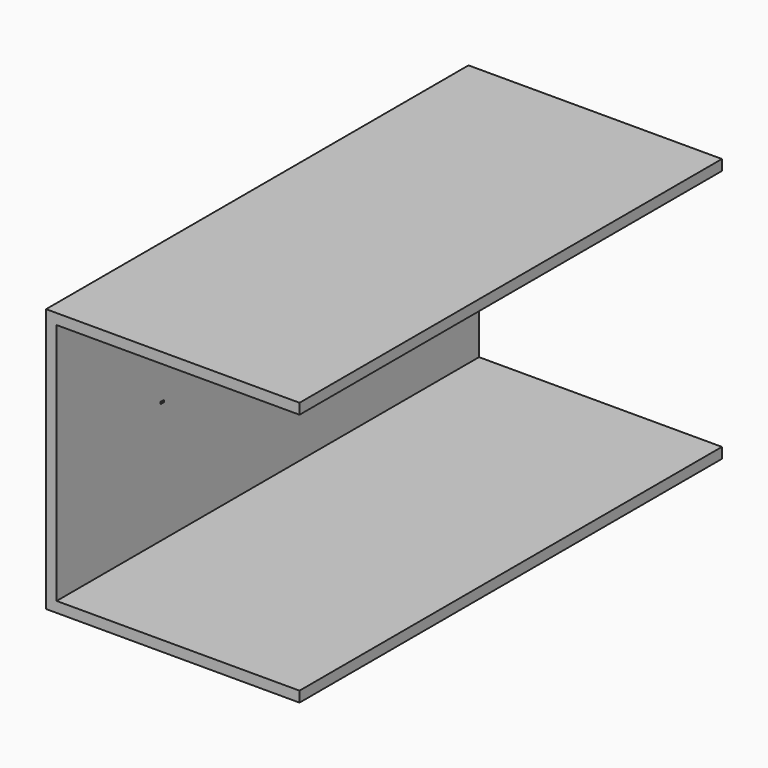
from build123d import *

# Parameters (mm, degrees)
F0_W      = 100
F0_H      = 100
F1_DEPTH  = 200
F2_W      = 92
F2_H      = 92
F3_DEPTH  = 200
F4_R      = 5
F5_DEPTH  = 4
F7_DEPTH  = 4
F4_R_2    = 7
F8_DEPTH  = 20
F11_DEPTH = 1
F12_DEPTH = 20
F13_W     = 216.226272
F13_H     = 124.404148
F14_DEPTH = 304.8


with BuildPart() as f1:
    # F0 (on Front) → F1 (new body)
    with BuildSketch(Plane.XZ):
        with Locations((50, 50)):
            Rectangle(F0_W, F0_H)
    extrude(amount=-F1_DEPTH)

    # F2 (on face) → F3 (cut)
    with BuildSketch(Plane.XZ):
        with Locations((50, 50)):
            Rectangle(F2_W, F2_H)
    extrude(amount=-F3_DEPTH, mode=Mode.SUBTRACT)

    # F4 (on face) → F5 (cut)
    with BuildSketch(Plane.YZ.offset(100)):
        with Locations((50, 50)):
            Circle(F4_R)
        with Locations((100, 50)):
            Circle(F4_R)
        with Locations((150, 50)):
            Circle(F4_R)
    extrude(amount=-F5_DEPTH, mode=Mode.SUBTRACT)

    # F6 (on face) → F7 (cut)
    with BuildSketch(Plane(origin=(0, 0, 0), x_dir=(0, -1, 0), z_dir=(-1, 0, 0))):
        Polygon((-50, 50.4), (-50.85, 50.4), (-50.85, 49.6), (-49.15, 49.6), (-49.15, 50.4), align=None)
        Polygon((-100, 50.4), (-100.85, 50.4), (-100.85, 49.6), (-99.15, 49.6), (-99.15, 50.4), align=None)
        Polygon((-150, 50), (-150, 49.6), (-149.15, 49.6), (-149.15, 50.4), (-150, 50.4), align=None)
        Polygon((-150.85, 49.6), (-150, 49.6), (-150, 50), (-150, 50.4), (-150.85, 50.4), align=None)
    extrude(amount=-F7_DEPTH, mode=Mode.SUBTRACT)

    # F4 (on face) → F8 (join)
    with BuildSketch(Plane.YZ.offset(100)):
        with Locations((50, 50)):
            Circle(F4_R_2)
        with Locations((50, 50)):
            Circle(F4_R, mode=Mode.SUBTRACT)
        with Locations((100, 50)):
            Circle(F4_R_2)
        with Locations((100, 50)):
            Circle(F4_R, mode=Mode.SUBTRACT)
        with Locations((150, 50)):
            Circle(F4_R_2)
        with Locations((150, 50)):
            Circle(F4_R, mode=Mode.SUBTRACT)
    extrude(amount=F8_DEPTH)

    # F10 (on face) → F11 (join)
    with BuildSketch(Plane(origin=(96, 0, 0), x_dir=(0, -1, 0), z_dir=(-1, 0, 0))):
        with BuildLine():
            Line((-45.069934, 49.166667), (-49.99933, 49.166667))
            Line((-49.99933, 49.166667), (-54.930066, 49.166667))
            ThreePointArc((-54.930066, 49.166667), (-50, 45), (-45.069934, 49.166667))
        make_face()
        with BuildLine():
            Line((-95.069934, 49.166667), (-99.99933, 49.166667))
            Line((-99.99933, 49.166667), (-104.930066, 49.166667))
            ThreePointArc((-104.930066, 49.166667), (-100, 45), (-95.069934, 49.166667))
        make_face()
        with BuildLine():
            Line((-145.069934, 49.166667), (-149.99933, 49.166667))
            Line((-149.99933, 49.166667), (-154.930066, 49.166667))
            ThreePointArc((-154.930066, 49.166667), (-150, 45), (-145.069934, 49.166667))
        make_face()
    extrude(amount=-F11_DEPTH)

    # F9 (on face) → F12 (join)
    with BuildSketch(Plane.YZ.offset(120)):
        with BuildLine():
            Line((47.001097, 54.000823), (47.001097, 56.325076))
            ThreePointArc((47.001097, 56.325076), (46.257829, 44.084245), (57, 50))
            ThreePointArc((57, 50), (55.91608, 53.741657), (53, 56.324555))
            Line((53, 56.324555), (53, 54))
            ThreePointArc((53, 54), (54.472136, 52.236068), (55, 50))
            ThreePointArc((55, 50), (47.763319, 45.528171), (47.001097, 54.000823))
        make_face()
        with BuildLine():
            Line((103, 56.324555), (103, 54))
            ThreePointArc((103, 54), (99.999314, 45), (97.001097, 54.000823))
            Line((97.001097, 54.000823), (97.001097, 56.325076))
            ThreePointArc((97.001097, 56.325076), (99.999393, 43), (103, 56.324555))
        make_face()
        with BuildLine():
            Line((153, 56.324555), (153, 54))
            ThreePointArc((153, 54), (149.999314, 45), (147.001097, 54.000823))
            Line((147.001097, 54.000823), (147.001097, 56.325076))
            ThreePointArc((147.001097, 56.325076), (149.999393, 43), (153, 56.324555))
        make_face()
    extrude(amount=F12_DEPTH)

    # F13 (on face) → F14 (cut)
    with BuildSketch(Plane(origin=(96, 0, 0), x_dir=(0, -1, 0), z_dir=(-1, 0, 0))):
        with Locations((-99.291925, 46.610653)):
            Rectangle(F13_W, F13_H)
    extrude(amount=-F14_DEPTH, mode=Mode.SUBTRACT)


solid = f1.part
